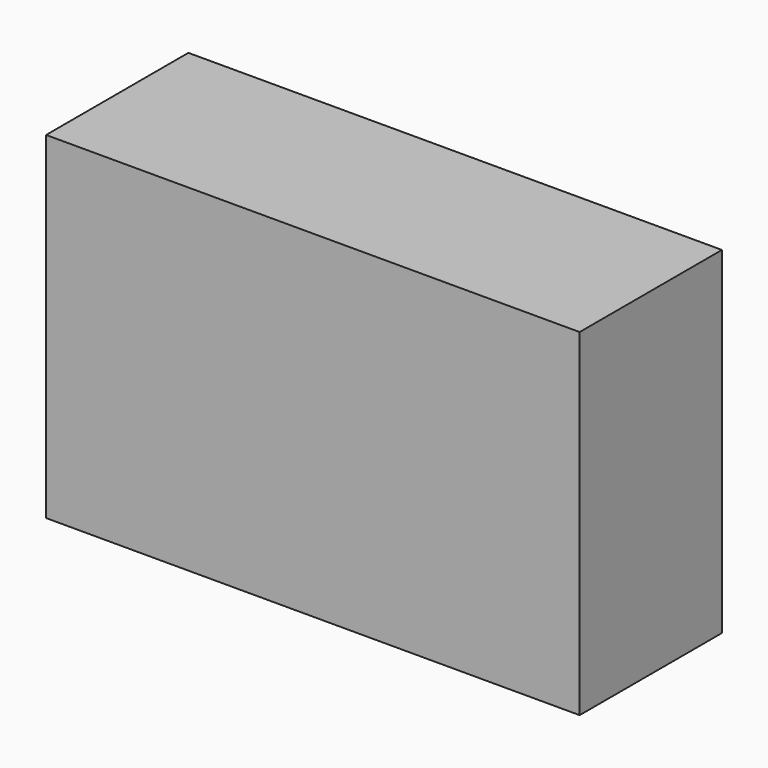
from build123d import *

# Parameters (mm, degrees)
F0_W     = 25.4
F0_H     = 25.4
F0_H_2   = 22.769289
F1_DEPTH = 25.4
F2_DEPTH = 25.4


with BuildPart() as f1:
    # F0 (on Front) → F1 (new body)
    with BuildSketch(Plane.XZ):
        with Locations((38.1, 12.7)):
            Rectangle(F0_W, F0_H)
        with Locations((-12.7, 36.784644)):
            Rectangle(F0_W, F0_H_2)
        with Locations((38.1, 36.784644)):
            Rectangle(F0_W, F0_H_2)
        with Locations((12.7, 12.7)):
            Rectangle(F0_W, F0_H)
        with Locations((12.7, 36.784644)):
            Rectangle(F0_W, F0_H_2)
        with Locations((-12.7, 12.7)):
            Rectangle(F0_W, F0_H)
    extrude(amount=F1_DEPTH)

    # F0 (on Front) → F2 (join)
    with BuildSketch(Plane.XZ):
        with Locations((12.7, 12.7)):
            Rectangle(F0_W, F0_H)
        with Locations((-12.7, 12.7)):
            Rectangle(F0_W, F0_H)
        with Locations((38.1, 12.7)):
            Rectangle(F0_W, F0_H)
        with Locations((12.7, 36.784644)):
            Rectangle(F0_W, F0_H_2)
        with Locations((-12.7, 36.784644)):
            Rectangle(F0_W, F0_H_2)
        with Locations((38.1, 36.784644)):
            Rectangle(F0_W, F0_H_2)
    extrude(amount=F2_DEPTH)


solid = f1.part
